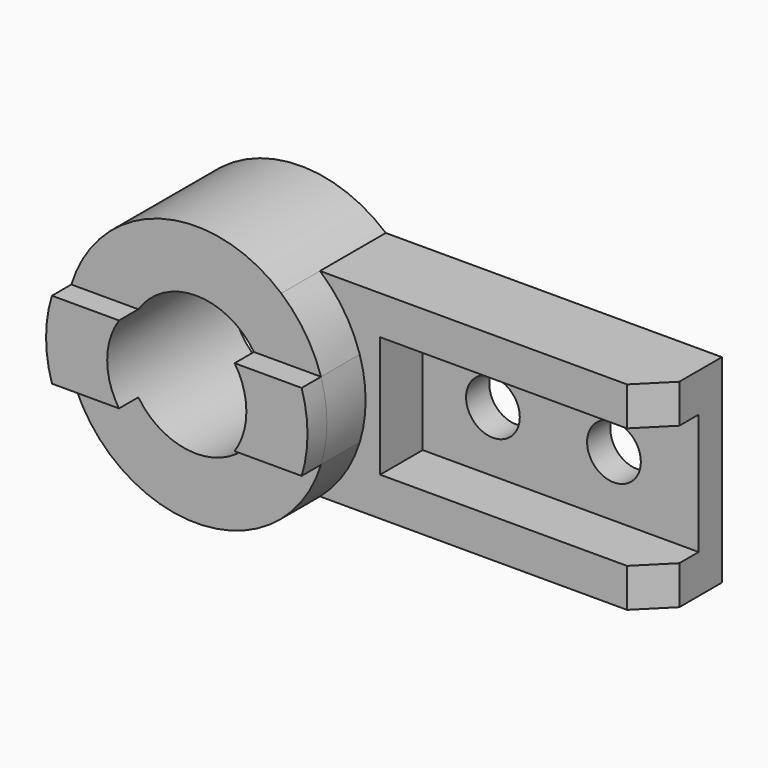
from build123d import *

# Parameters (mm, degrees)
F0_R      = 54
F0_R_2    = 28.75
F1_DEPTH  = 64
F3_DEPTH  = 10
F4_R      = 11.1
F5_DEPTH  = 54
F6_DEPTH  = 20
F8_DEPTH  = 95.001
F9_W      = 114
F9_H      = 50
F10_DEPTH = 22


with BuildPart() as f1:
    # F0 (on Front) → F1 (new body)
    with BuildSketch(Plane.XZ):
        Circle(F0_R)
        Circle(F0_R_2, mode=Mode.SUBTRACT)
    extrude(amount=-F1_DEPTH)

    # F2 (on face) → F3 (cut)
    with BuildSketch(Plane.XZ):
        with BuildLine():
            ThreePointArc((23.88645, -16), (0, -28.75), (-23.88645, -16))
            Line((-23.88645, -16), (-51.575188, -16))
            ThreePointArc((-51.575188, -16), (0, -54), (51.575188, -16))
            Line((51.575188, -16), (23.88645, -16))
        make_face()
        with BuildLine():
            ThreePointArc((51.575188, 16), (0, 54), (-51.575188, 16))
            Line((-51.575188, 16), (-23.88645, 16))
            ThreePointArc((-23.88645, 16), (0, 28.75), (23.88645, 16))
            Line((23.88645, 16), (51.575188, 16))
        make_face()
    extrude(amount=-F3_DEPTH, mode=Mode.SUBTRACT)

    # F4 (on face) → F5 (join, through all)
    with BuildSketch(Plane.XZ.offset(-10)):
        with BuildLine():
            ThreePointArc((51.575188, -16), (45.124741, -29.660711), (35.142567, -41))
            Line((35.142567, -41), (174, -41))
            Line((174, -41), (174, 41))
            Line((174, 41), (35.142567, 41))
            ThreePointArc((35.142567, 41), (45.124741, 29.660711), (51.575188, 16))
            ThreePointArc((51.575188, 16), (54, 0), (51.575188, -16))
        make_face()
        with Locations((89, 0)):
            Circle(F4_R, mode=Mode.SUBTRACT)
        with Locations((139, 0)):
            Circle(F4_R, mode=Mode.SUBTRACT)
    extrude(amount=-F5_DEPTH)

    # F4 (on face) → F6 (cut)
    with BuildSketch(Plane.XZ.offset(-10)):
        with BuildLine():
            ThreePointArc((51.575188, -16), (45.124741, -29.660711), (35.142567, -41))
            Line((35.142567, -41), (174, -41))
            Line((174, -41), (174, 41))
            Line((174, 41), (35.142567, 41))
            ThreePointArc((35.142567, 41), (45.124741, 29.660711), (51.575188, 16))
            ThreePointArc((51.575188, 16), (54, 0), (51.575188, -16))
        make_face()
        with Locations((89, 0)):
            Circle(F4_R, mode=Mode.SUBTRACT)
        with Locations((139, 0)):
            Circle(F4_R, mode=Mode.SUBTRACT)
    extrude(amount=-F6_DEPTH, mode=Mode.SUBTRACT)

    # F7 (on face) → F8 (cut, through all)
    with BuildSketch(Plane.XY.offset(41)):
        Polygon((174, 42), (162, 30), (174, 30), align=None)
    extrude(amount=-F8_DEPTH, mode=Mode.SUBTRACT)

    # F9 (on face) → F10 (cut)
    with BuildSketch(Plane.XZ.offset(-30)):
        with Locations((117, 0)):
            Rectangle(F9_W, F9_H)
    extrude(amount=-F10_DEPTH, mode=Mode.SUBTRACT)


solid = f1.part
